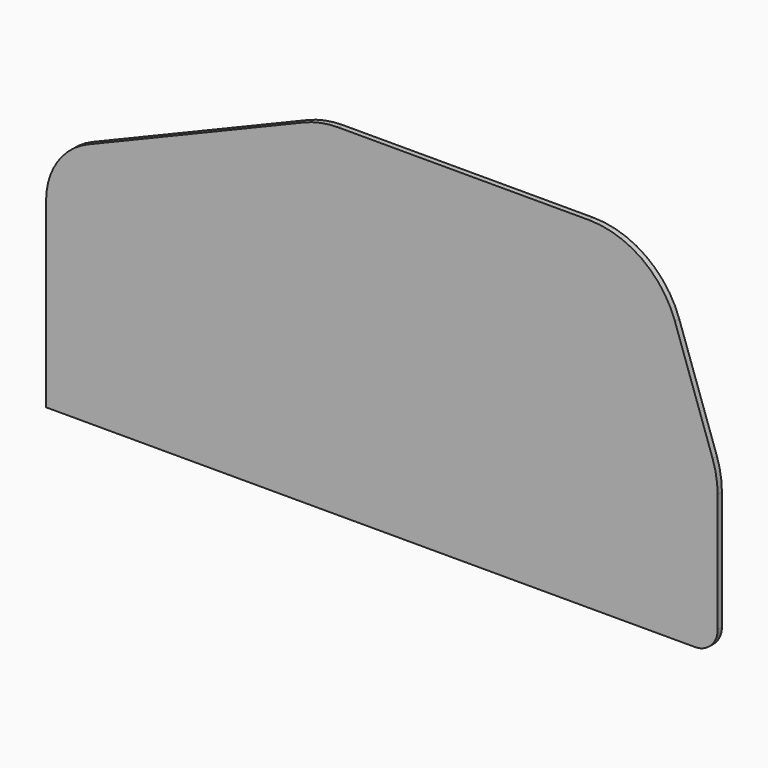
from build123d import *

# Parameters (mm, degrees)
F1_DEPTH = 23.5


with BuildPart() as f1:
    # F0 (on Front) → F1 (new body)
    with BuildSketch(Plane.XZ):
        with BuildLine():
            Line((0, 800), (0, 0))
            Line((0, 0), (2850, 0))
            ThreePointArc((2850, 0), (2920.710678, 29.289322), (2950, 100))
            Line((2950, 100), (2950, 622.904556))
            ThreePointArc((2950, 622.904556), (2944.435643, 689.391575), (2927.897381, 754.028807))
            Line((2927.897381, 754.028807), (2762.353014, 1231.124251))
            ThreePointArc((2762.353014, 1231.124251), (2616.350329, 1425.92154), (2384.455633, 1500))
            Line((2384.455633, 1500), (1284.455633, 1500))
            ThreePointArc((1284.455633, 1500), (1206.337351, 1492.297762), (1131.227498, 1469.48767))
            Line((1131.227498, 1469.48767), (185.078898, 1077.115753))
            ThreePointArc((185.078898, 1077.115753), (50.524219, 966.618831), (0, 800))
        make_face()
    extrude(amount=F1_DEPTH)


solid = f1.part
